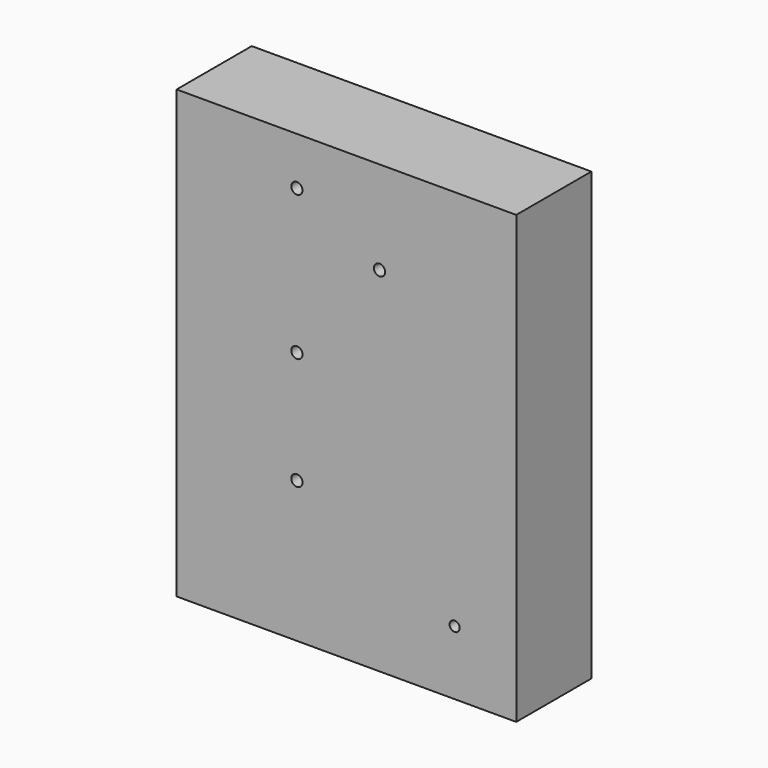
from build123d import *

# Parameters (mm, degrees)
F0_W     = 90.427961
F0_H     = 118.848171
F0_R     = 1.342773
F0_R_2   = 1.5
F1_DEPTH = 25
F2_R     = 1.5
F3_DEPTH = 25


with BuildPart() as f1:
    # F0 (on Front) → F1 (new body)
    with BuildSketch(Plane.XZ):
        with Locations((13.190647, -50.225)):
            Rectangle(F0_W, F0_H)
        with Locations((42, -92.556594)):
            Circle(F0_R, mode=Mode.SUBTRACT)
        with Locations((0, -3.556594)):
            Circle(F0_R_2, mode=Mode.SUBTRACT)
        with Locations((22, -15.556594)):
            Circle(F0_R_2, mode=Mode.SUBTRACT)
    extrude(amount=F1_DEPTH)

    # F2 (on face) → F3 (cut)
    with BuildSketch(Plane.XZ.offset(25)):
        with Locations((0, -42.056594)):
            Circle(F2_R)
        with Locations((0, -72.056594)):
            Circle(F2_R)
    extrude(amount=-F3_DEPTH, mode=Mode.SUBTRACT)


solid = f1.part
